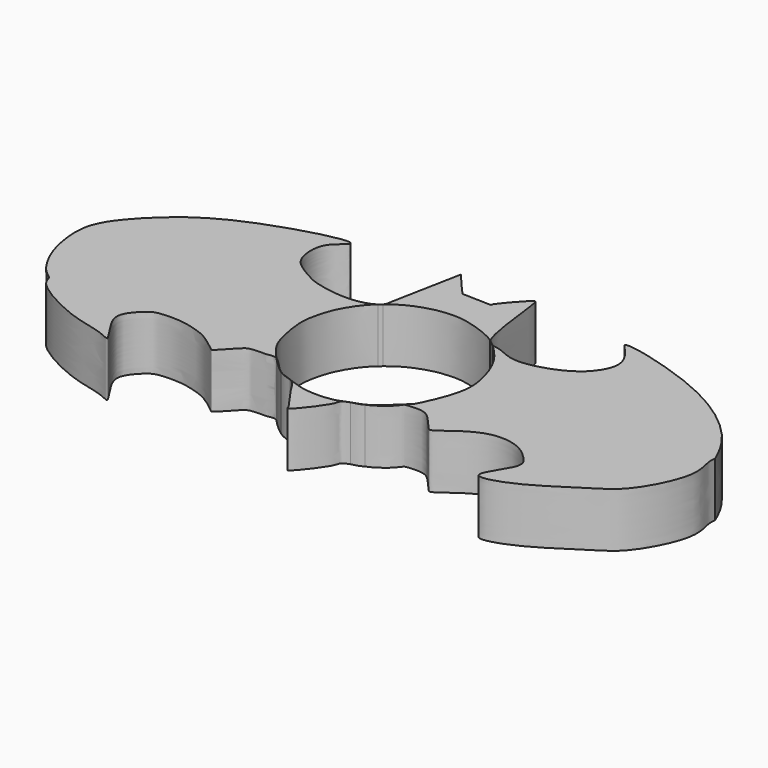
from build123d import *

# Parameters (mm, degrees)
F1_DEPTH = 7


with BuildPart() as f1:
    # F0 (on Top) → F1 (new body)
    with BuildSketch(Plane.XY):
        with BuildLine():
            add(Edge.make_bspline(
                [(-4.9683391117, 18.4097215533), (-3.720232358, 16.9490796436), (-2.1969648964, 15.1664211336), (-2.1223822059, 15.2614364478), (1.7675941703, 15.0399476155), (1.2957874363, 15.2915040775), (4.0760005082, 18.3853115059), (4.9212796536, 18.9243213879), (5.2984341621, 10.9539715893), (6.3069732411, 9.0496158353)],
                knots=[0, 0, 0, 0, 0.066181213, 0.0807730577, 0.1417431194, 0.1508817553, 0.216445324, 0.2370813087, 0.3364256101, 0.3364256101, 0.3364256101, 0.3364256101], degree=3))
            add(Edge.make_bspline(
                [(-6.7197587341, 9.3915537), (-6.1359521933, 12.3976096511), (-5.5521456525, 15.4036656022), (-4.9683391117, 18.4097215533)],
                knots=[0, 0, 0, 0, 9.1866654519, 9.1866654519, 9.1866654519, 9.1866654519], degree=3))
            add(Edge.make_bspline(
                [(-7.0195782836, 8.4690920788), (-6.771609958, 8.7638128674), (-6.7465060645, 9.0782964882), (-6.7197587341, 9.3915537)],
                knots=[0.9900798602, 0.9900798602, 0.9900798602, 0.9900798602, 1, 1, 1, 1], degree=3))
            add(Edge.make_bspline(
                [(-7.0195782863, 8.4690920815), (-6.3767606996, 8.9979270599), (-4.8805792708, 10.017902026), (-2.1788843311, 10.8555257978), (-0.6283724476, 10.9904214409), (1.3082200553, 11.0972745659), (4.7024179384, 10.0368068395), (5.9812718811, 9.2800670822), (6.3069732411, 9.0496158353)],
                knots=[0.761225492, 0.761225492, 0.761225492, 0.761225492, 0.8021541099, 0.8440651036, 0.8747614782, 0.9094705369, 0.9604066999, 0.9801915573, 0.9801915573, 0.9801915573, 0.9801915573], degree=3))
        make_face()
    extrude(amount=F1_DEPTH)


with BuildPart() as f1b:
    # F0 (on Top) → F1, piece 2 (new body)
    with BuildSketch(Plane.XY):
        with BuildLine():
            add(Edge.make_bspline(
                [(6.3069732411, 9.0496158353), (6.6173763048, 8.8299889566), (6.8986514558, 8.593335437), (7.1906451448, 8.3265035986)],
                knots=[0.9801915573, 0.9801915573, 0.9801915573, 0.9801915573, 0.9990471136, 0.9990471136, 0.9990471136, 0.9990471136], degree=3))
            add(Edge.make_bspline(
                [(6.3069732411, 9.0496158353), (6.3179806059, 9.0288313769), (6.5755881924, 8.5590371876), (6.8785142124, 8.398295927), (7.1906451448, 8.3265035986)],
                knots=[0.3364256101, 0.3364256101, 0.3364256101, 0.3364256101, 0.3375098705, 0.3616110112, 0.3616110112, 0.3616110112, 0.3616110112], degree=3))
        make_face()
    extrude(amount=F1_DEPTH)


with BuildPart() as f1c:
    # F0 (on Top) → F1, piece 3 (new body)
    with BuildSketch(Plane.XY):
        with BuildLine():
            add(Edge.make_bspline(
                [(7.1906451448, 8.3265035986), (7.4443385663, 8.2681523122), (8.4461510492, 8.2526159196), (10.5639953309, 6.7295963705), (15.6956760866, 8.077158623), (18.6308051452, 10.0948391572), (20.2517081565, 13.3341772592), (18.2015326417, 15.9204345264), (16.3268568519, 17.6066288996), (30.3907662767, 14.124157994), (38.0295135781, 7.3863829065), (39.4141721621, 4.3197079498), (39.9373546243, 3.1609886792)],
                knots=[0.3616110112, 0.3616110112, 0.3616110112, 0.3616110112, 0.3811999088, 0.4347301272, 0.5073525292, 0.5692788523, 0.626288595, 0.6839982106, 0.7140540062, 0.8252843044, 0.9339860275, 1, 1, 1, 1], degree=3))
            add(Edge.make_bspline(
                [(7.1906451448, 8.3265035986), (7.2054013685, 8.3130189569), (7.2201849662, 8.2994572427), (7.2350010807, 8.2858167589)],
                knots=[0.9990471136, 0.9990471136, 0.9990471136, 0.9990471136, 1, 1, 1, 1], degree=3))
            add(Edge.make_bspline(
                [(7.2350010807, 8.2858167589), (7.9298246394, 7.6461261355), (9.5226218486, 5.9564931947), (10.8749399967, 2.4173372401), (11.4168756074, -1.2886696294), (9.1753240231, -6.1432466522), (8.8467886615, -6.6405887654), (6.2891703239, -9.0600233615), (5.1876266097, -9.6999242337)],
                knots=[0, 0, 0, 0, 0.0446870128, 0.0928799496, 0.1428689038, 0.1982134998, 0.2210218567, 0.2749930462, 0.2749930462, 0.2749930462, 0.2749930462], degree=3))
            add(Edge.make_bspline(
                [(39.9373546243, 3.1609886792), (39.9058124177, 2.8355884995), (39.8220540351, 1.9715084072), (40.9727310119, -0.9809791931), (37.5335499895, -7.8393640342), (34.0249815608, -9.7098065181), (27.9032147124, -14.0628769576), (21.9585338626, -15.4664094709), (26.1672688007, -10.4779122027), (24.9637933847, -8.8312255385), (22.8549601426, -6.8425095406), (18.647601791, -6.4371082344), (15.2555396242, -8.9090743554), (13.7335478265, -10.0673972195), (13.2949694265, -9.6319417174), (11.7783107595, -7.8232155792), (10.6621810097, -6.9391962595), (8.2318053629, -7.1741263476), (8.232232828, -7.3412688752), (7.4169464162, -8.3374381651), (6.4307007662, -9.0433882431), (5.7602161398, -9.4746155708), (5.1876266113, -9.699924237)],
                knots=[0, 0, 0, 0, 0.0103993834, 0.0276169102, 0.0544564625, 0.0750864124, 0.1036771293, 0.1224619844, 0.143253801, 0.1565150588, 0.173195603, 0.1932759582, 0.2140996534, 0.226811942, 0.2335526494, 0.2487363184, 0.2616795465, 0.2762991139, 0.2797590352, 0.2906783903, 0.3020440506, 0.3141169156, 0.3141169156, 0.3141169156, 0.3141169156], degree=3))
        make_face()
    extrude(amount=F1_DEPTH)


with BuildPart() as f1d:
    # F0 (on Top) → F1, piece 4 (new body)
    with BuildSketch(Plane.XY):
        with BuildLine():
            add(Edge.make_bspline(
                [(5.1876266097, -9.6999242337), (4.5498206587, -10.0704338912), (4.1454522434, -10.0853032081), (3.7262787573, -10.2168057526)],
                knots=[0.2749930462, 0.2749930462, 0.2749930462, 0.2749930462, 0.3062429589, 0.3062429589, 0.3062429589, 0.3062429589], degree=3))
            add(Edge.make_bspline(
                [(5.1876266113, -9.699924237), (4.7552817141, -9.8700479422), (4.1933850254, -10.041989989), (3.7262787592, -10.216805753)],
                knots=[0.3141169156, 0.3141169156, 0.3141169156, 0.3141169156, 0.3232327676, 0.3232327676, 0.3232327676, 0.3232327676], degree=3))
        make_face()
    extrude(amount=F1_DEPTH)


with BuildPart() as f1e:
    # F0 (on Top) → F1, piece 5 (new body)
    with BuildSketch(Plane.XY):
        with BuildLine():
            add(Edge.make_bspline(
                [(3.7262787491, -10.2168057559), (3.3923045286, -10.3417964974), (2.6716838287, -10.660970365), (2.9283076745, -11.4303630809), (-0.4250165435, -15.703416803), (-0.4550502937, -14.6795344689), (-2.4616398164, -12.3408486411), (-3.2869227038, -10.5702748008), (-3.9574851304, -10.1844335041), (-4.0953691953, -10.1206263107)],
                knots=[0.3232327676, 0.3232327676, 0.3232327676, 0.3232327676, 0.32975047, 0.3396828987, 0.3614715079, 0.3673794549, 0.3851693749, 0.4008336894, 0.4047080646, 0.4047080646, 0.4047080646, 0.4047080646], degree=3))
            add(Edge.make_bspline(
                [(3.7262787556, -10.2168057526), (3.2917506277, -10.3531253352), (2.1595292213, -11.010819612), (-1.7010928411, -11.1368018943), (-3.4423746184, -10.3327820991), (-4.0953692025, -10.1206263051)],
                knots=[0.3062429589, 0.3062429589, 0.3062429589, 0.3062429589, 0.3386375808, 0.3876701647, 0.4277901159, 0.4277901159, 0.4277901159, 0.4277901159], degree=3))
        make_face()
    extrude(amount=F1_DEPTH)


with BuildPart() as f1f:
    # F0 (on Top) → F1, piece 6 (new body)
    with BuildSketch(Plane.XY):
        with BuildLine():
            add(Edge.make_bspline(
                [(-4.0953692025, -10.1206263051), (-4.6357674579, -9.9450526882), (-5.0867162169, -9.8719802287), (-5.717898367, -9.4655624388)],
                knots=[0.4277901159, 0.4277901159, 0.4277901159, 0.4277901159, 0.4609921539, 0.4609921539, 0.4609921539, 0.4609921539], degree=3))
            add(Edge.make_bspline(
                [(-4.0953691953, -10.1206263107), (-4.3785138364, -9.9895983715), (-4.9563292208, -9.8423014454), (-5.4693202105, -9.620458039), (-5.7178983597, -9.4655624442)],
                knots=[0.4047080646, 0.4047080646, 0.4047080646, 0.4047080646, 0.4126640859, 0.4198362558, 0.4198362558, 0.4198362558, 0.4198362558], degree=3))
        make_face()
    extrude(amount=F1_DEPTH)


with BuildPart() as f1g:
    # F0 (on Top) → F1, piece 7 (new body)
    with BuildSketch(Plane.XY):
        with BuildLine():
            add(Edge.make_bspline(
                [(-5.7178983698, -9.4655624383), (-5.7923632714, -9.4176145349), (-5.8693367596, -9.3650269496), (-5.9484004434, -9.3082883074)],
                knots=[0.4609921539, 0.4609921539, 0.4609921539, 0.4609921539, 0.4649092268, 0.4649092268, 0.4649092268, 0.4649092268], degree=3))
            add(Edge.make_bspline(
                [(-5.7178983597, -9.4655624442), (-5.7940373069, -9.41811826), (-5.8706803121, -9.3660093158), (-5.9484004618, -9.3082882945)],
                knots=[0.4198362558, 0.4198362558, 0.4198362558, 0.4198362558, 0.4220330758, 0.4220330758, 0.4220330758, 0.4220330758], degree=3))
        make_face()
    extrude(amount=F1_DEPTH)


with BuildPart() as f1h:
    # F0 (on Top) → F1, piece 8 (new body)
    with BuildSketch(Plane.XY):
        with BuildLine():
            add(Edge.make_bspline(
                [(-5.9484004618, -9.3082882945), (-6.0586377606, -9.226417512), (-6.7044699351, -8.6911484282), (-7.4758258101, -7.693917036), (-8.0649936339, -7.3654025051)],
                knots=[0.4220330758, 0.4220330758, 0.4220330758, 0.4220330758, 0.4251490182, 0.4399360869, 0.4399360869, 0.4399360869, 0.4399360869], degree=3))
            add(Edge.make_bspline(
                [(-5.9484004618, -9.3082882945), (-6.5907541134, -8.8473146537), (-7.3710766817, -8.1123394857), (-8.0649936339, -7.3654025051)],
                knots=[0.4649092268, 0.4649092268, 0.4649092268, 0.4649092268, 0.4967335223, 0.4967335223, 0.4967335223, 0.4967335223], degree=3))
        make_face()
    extrude(amount=F1_DEPTH)


with BuildPart() as f1i:
    # F0 (on Top) → F1, piece 9 (new body)
    with BuildSketch(Plane.XY):
        with BuildLine():
            add(Edge.make_bspline(
                [(-8.0649936339, -7.3654025051), (-8.4980383169, -6.8992702296), (-9.7116769829, -5.46867853), (-10.4322999833, -3.8708712875), (-11.1597557917, 0.0260634799), (-10.8478666983, 2.0240572153), (-10.232081363, 4.3879505759), (-8.8214319277, 6.7051983114), (-7.8502002974, 7.7377370467), (-7.4114599333, 8.1323806196)],
                knots=[0.4967335223, 0.4967335223, 0.4967335223, 0.4967335223, 0.5165937403, 0.5570827552, 0.6056220865, 0.641629076, 0.6803000148, 0.7230335224, 0.7526559462, 0.7526559462, 0.7526559462, 0.7526559462], degree=3))
            add(Edge.make_bspline(
                [(-8.0649936339, -7.3654025051), (-8.1259121808, -7.3314348867), (-8.6084798912, -7.1023667651), (-9.3695256289, -7.3891023466), (-10.1247751443, -7.2708068595), (-11.2766786265, -7.4062787364), (-11.9890238864, -7.4779249392), (-14.1746664791, -10.140854387), (-14.4620309065, -9.8854430894), (-16.5601499668, -8.1772344479), (-18.2585883659, -7.5736260705), (-20.4853899448, -6.9272558841), (-23.4934231318, -7.0016585888), (-24.553836197, -7.4936284719), (-26.2917768741, -9.3516738153), (-26.3221678133, -11.1337612525), (-24.5860031554, -13.6012442126), (-23.7191036101, -14.9220211167), (-25.5531371496, -13.7870973773), (-29.9612636409, -13.2514306202), (-36.6547650456, -9.5114719184), (-36.6529634626, -7.8624047442), (-38.084471369, -7.1434616923), (-40.0891102181, -3.9335516777), (-41.0100276682, -0.0405047794), (-41.0380020425, 4.068638937), (-37.2603849598, 8.6277177007), (-30.9863654144, 13.9539326528), (-18.3516964758, 17.4922602489), (-17.5784663225, 16.5420367791), (-20.2020008616, 15.1534426519), (-19.9943083733, 11.5206602737), (-18.9228474611, 9.9156191906), (-16.4914277632, 8.5215830993), (-14.9825627073, 7.7648366937), (-10.5016132214, 6.9393167086), (-8.0006969866, 7.7411562514), (-7.4114599333, 8.1323806196)],
                knots=[0.4399360869, 0.4399360869, 0.4399360869, 0.4399360869, 0.4414650345, 0.4521504386, 0.461041662, 0.4714075305, 0.480606416, 0.4985229266, 0.5034568443, 0.5195433561, 0.5336710522, 0.5490598295, 0.5661883675, 0.5772150273, 0.5925615911, 0.605630114, 0.6235532804, 0.633171097, 0.6443123862, 0.6669092515, 0.6940787446, 0.7052955608, 0.7169846373, 0.736299893, 0.7567116714, 0.7764007371, 0.799651419, 0.8305349961, 0.8656352988, 0.871933059, 0.8875171883, 0.9058949679, 0.9199366201, 0.9361587273, 0.9496227491, 0.9718996623, 0.9861670567, 0.9861670567, 0.9861670567, 0.9861670567], degree=3))
        make_face()
    extrude(amount=F1_DEPTH)


with BuildPart() as f1j:
    # F0 (on Top) → F1, piece 10 (new body)
    with BuildSketch(Plane.XY):
        with BuildLine():
            add(Edge.make_bspline(
                [(-7.4114599333, 8.1323806196), (-7.2498628833, 8.239673098), (-7.1173844918, 8.3528452849), (-7.0195782836, 8.4690920788)],
                knots=[0.9861670567, 0.9861670567, 0.9861670567, 0.9861670567, 0.9900798602, 0.9900798602, 0.9900798602, 0.9900798602], degree=3))
            add(Edge.make_bspline(
                [(-7.4114599333, 8.1323806196), (-7.2845356259, 8.246548055), (-7.1541700367, 8.3583657621), (-7.0195782863, 8.4690920815)],
                knots=[0.7526559462, 0.7526559462, 0.7526559462, 0.7526559462, 0.761225492, 0.761225492, 0.761225492, 0.761225492], degree=3))
        make_face()
    extrude(amount=F1_DEPTH)


solid = Compound([f1.part, f1b.part, f1c.part, f1d.part, f1e.part, f1f.part, f1g.part, f1h.part, f1i.part, f1j.part])
